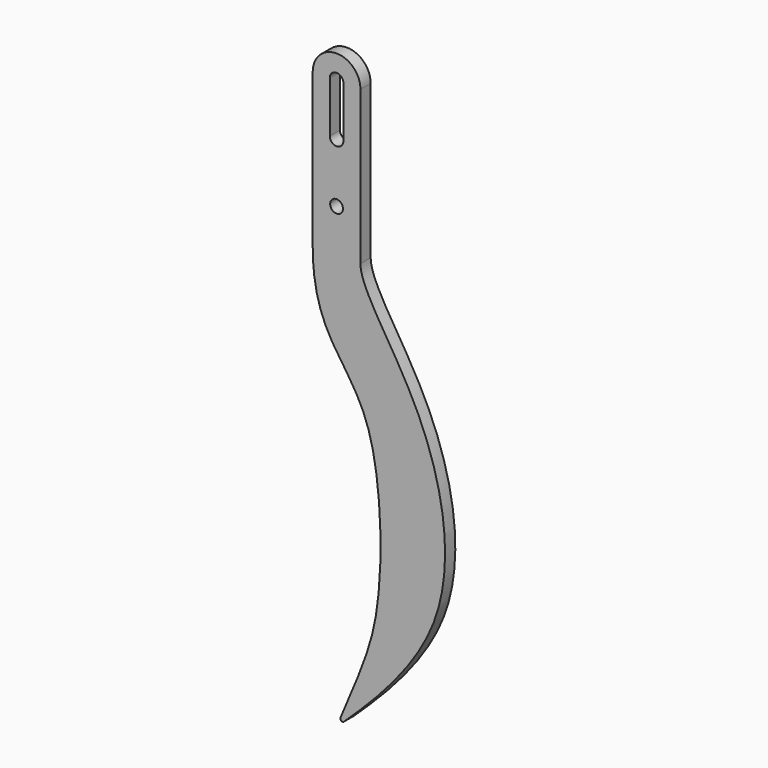
from build123d import *

# Parameters (mm, degrees)
F0_R     = 1.5
F1_DEPTH = 3
F2_R     = 0.5


with BuildPart() as f1:
    # F0 (on Front) → F1 (new body)
    with BuildSketch(Plane.XZ):
        with BuildLine():
            Line((0, 0), (0, 36))
            ThreePointArc((0, 36), (-5.6, 41.6), (-11.2, 36))
            Line((-11.2, 36), (-11.2, 0))
            Line((-11.2, 0), (0, 0))
        make_face()
        with Locations((-5.6, 10)):
            Circle(F0_R, mode=Mode.SUBTRACT)
        with BuildLine():
            ThreePointArc((-4, 24), (-5.6, 22.4), (-7.2, 24))
            Line((-7.2, 24), (-7.2, 36))
            ThreePointArc((-7.2, 36), (-5.6, 37.6), (-4, 36))
            Line((-4, 36), (-4, 24))
        make_face(mode=Mode.SUBTRACT)
        with BuildLine():
            add(Edge.make_bspline(
                [(0, 0), (0, -2), (3.1541045196, -9.4040558016), (17.6686951017, -29.7619249068), (24.5263545515, -70.2884872842), (0, -92.1286925129), (-5.6, -97.5)],
                knots=[0, 0, 0, 0, 0.1446382869, 0.3923476742, 0.7015694111, 1, 1, 1, 1], degree=3))
            Line((0, 0), (-11.2, 0))
            add(Edge.make_bspline(
                [(-5.6, -97.5), (0, -84.0113517398), (5.7610152741, -72.7768138304), (4.5449377173, -33.0457161168), (-6.3860474236, -19.9826587077), (-11.2, -10), (-11.2, 0)],
                knots=[0, 0, 0, 0, 0.2748368988, 0.5715738779, 0.7716012788, 1, 1, 1, 1], degree=3))
        make_face()
    extrude(amount=F1_DEPTH)

    # F2
    f2_edges = [f1.edges().sort_by_distance(p)[0] for p in [
        (-5.6, -1.5, -97.5),
    ]]
    fillet(f2_edges, radius=F2_R)


solid = f1.part
